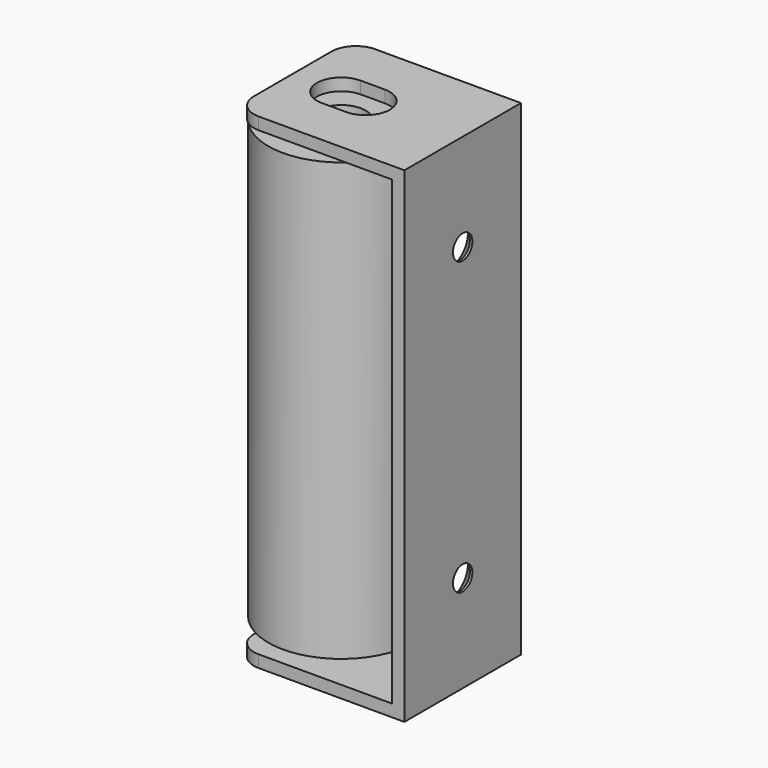
from build123d import *

# Parameters (mm, degrees)
F1_START = -6.35
F0_R     = 19.05
F0_R_2   = 6.35
F1_DEPTH = 114.3
F3_DEPTH = 19.05
F5_DEPTH = 127.001
F6_R     = 6.35
F7_R     = 3.175
F8_DEPTH = 50.801
F9_SIZE  = 2.54


with BuildPart() as f1:
    # F0 (on Top) → F1 (new body)
    with BuildSketch(Plane.XY.offset(F1_START)):
        with Locations((12.7, 0)):
            Circle(F0_R)
        with Locations((12.7, 0)):
            Circle(F0_R_2, mode=Mode.SUBTRACT)
    extrude(amount=-F1_DEPTH)


with BuildPart() as f3:
    # F2 (on Front) → F3 (new body, symmetric)
    with BuildSketch(Plane.XZ):
        Polygon((44.45, 0), (0, 0), (0, -3.175), (41.275, -3.175), (41.275, -123.825), (0, -123.825), (0, -127), (44.45, -127), align=None)
    extrude(amount=F3_DEPTH, both=True)

    # F4 (on face) → F5 (cut, through all)
    with BuildSketch(Plane.XY):
        with BuildLine():
            ThreePointArc((19.05, 6.35), (17.4064990636, 6.1336289969), (15.875, 5.499261314))
            ThreePointArc((15.875, 5.499261314), (18.199261314, 3.175), (19.05, 0))
            ThreePointArc((19.05, 0), (18.199261314, -3.175), (15.875, -5.499261314))
            ThreePointArc((15.875, -5.499261314), (17.4064990636, -6.1336289969), (19.05, -6.35))
            ThreePointArc((19.05, -6.35), (23.5401280605, -4.4901280605), (25.4, 0))
            ThreePointArc((25.4, 0), (23.5401280605, 4.4901280605), (19.05, 6.35))
        make_face()
        with BuildLine():
            ThreePointArc((15.875, 5.499261314), (14.3435009364, 6.1336289969), (12.7, 6.35))
            ThreePointArc((12.7, 6.35), (6.35, 0), (12.7, -6.35))
            ThreePointArc((12.7, -6.35), (14.3435009364, -6.1336289969), (15.875, -5.499261314))
            ThreePointArc((15.875, -5.499261314), (12.7, 0), (15.875, 5.499261314))
        make_face()
        with BuildLine():
            ThreePointArc((19.05, 0), (18.199261314, 3.175), (15.875, 5.499261314))
            ThreePointArc((15.875, 5.499261314), (12.7, 0), (15.875, -5.499261314))
            ThreePointArc((15.875, -5.499261314), (18.199261314, -3.175), (19.05, 0))
        make_face()
        with BuildLine():
            Line((19.05, 6.35), (12.7, 6.35))
            ThreePointArc((12.7, 6.35), (14.3435009364, 6.1336289969), (15.875, 5.499261314))
            ThreePointArc((15.875, 5.499261314), (17.4064990636, 6.1336289969), (19.05, 6.35))
        make_face()
        with BuildLine():
            ThreePointArc((15.875, -5.499261314), (14.3435009364, -6.1336289969), (12.7, -6.35))
            Line((12.7, -6.35), (19.05, -6.35))
            ThreePointArc((19.05, -6.35), (17.4064990636, -6.1336289969), (15.875, -5.499261314))
        make_face()
    extrude(amount=-F5_DEPTH, mode=Mode.SUBTRACT)

    # F6
    f6_edges = [f3.edges().sort_by_distance(p)[0] for p in [
        (0, 19.05, -1.5875),
        (0, -19.05, -1.5875),
        (0, -19.05, -125.4125),
        (0, 19.05, -125.4125),
    ]]
    fillet(f6_edges, radius=F6_R)

    # F7 (on face) → F8 (cut, through all)
    with BuildSketch(Plane.YZ.offset(44.45)):
        with Locations((0, -25.4)):
            Circle(F7_R)
        with Locations((0, -101.6)):
            Circle(F7_R)
    extrude(amount=-F8_DEPTH, mode=Mode.SUBTRACT)

    # F9
    f9_edges = [f3.edges().sort_by_distance(p)[0] for p in [
        (41.275, -3.175, -25.4),
        (41.275, -3.175, -101.6),
    ]]
    chamfer(f9_edges, length=F9_SIZE)


solid = Compound([f1.part, f3.part])
